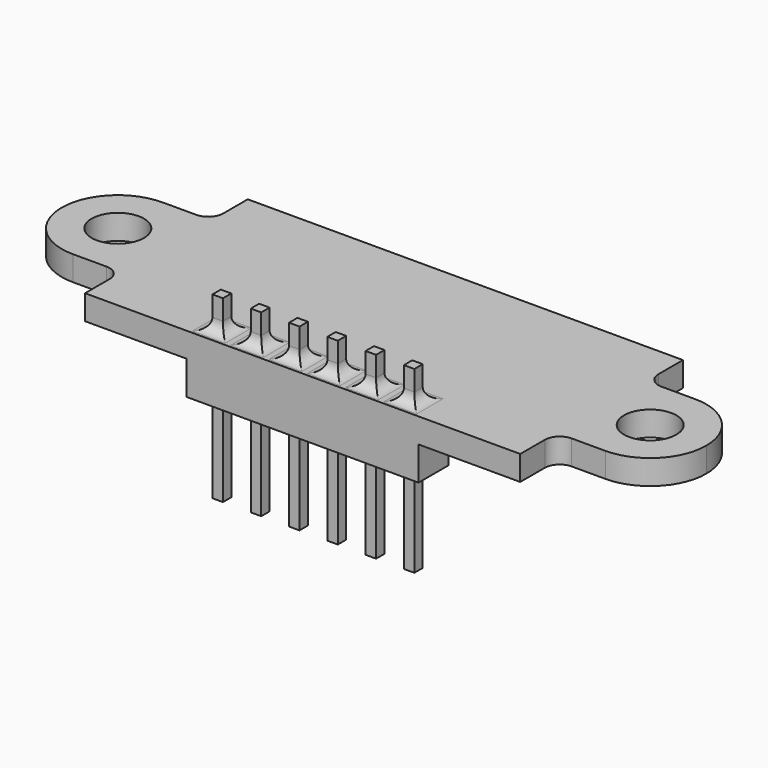
from build123d import *

# Parameters (mm, degrees)
F0_R          = 1.75
F1_DEPTH      = 1.65
F2_R          = 1
F3_W          = 15.5
F3_H          = 2.5
F4_DEPTH      = 2.25
F5_W          = 0.7
F5_H          = 0.7
F6_DEPTH      = 6
F6_DEPTH_BACK = 6
F7_R          = 0.75


with BuildPart() as f1:
    # F0 (on Top) → F1 (new body)
    with BuildSketch(Plane.XY):
        with BuildLine():
            Line((14.55, 6.8), (-14.55, 6.8))
            Line((-14.55, 6.8), (-14.55, 3.75))
            Line((-14.55, 3.75), (-14.55, 1.8708286934))
            ThreePointArc((-14.55, 1.8708286934), (-14.1771558135, 0.9682458366), (-14.05, 0))
            ThreePointArc((-14.05, 0), (-14.1771558135, -0.9682458366), (-14.55, -1.8708286934))
            Line((-14.55, -1.8708286934), (-14.55, -3.75))
            Line((-14.55, -3.75), (-14.55, -6.8))
            Line((-14.55, -6.8), (14.55, -6.8))
            Line((14.55, -6.8), (14.55, -3.75))
            Line((14.55, -3.75), (14.55, -1.8708286934))
            ThreePointArc((14.55, -1.8708286934), (14.05, 0), (14.55, 1.8708286934))
            Line((14.55, 1.8708286934), (14.55, 3.75))
            Line((14.55, 3.75), (14.55, 6.8))
        make_face()
        with BuildLine():
            Line((-14.55, 1.8708286934), (-14.55, 3.75))
            Line((-14.55, 3.75), (-17.8, 3.75))
            ThreePointArc((-17.8, 3.75), (-15.9229155054, 3.2463908884), (-14.55, 1.8708286934))
        make_face()
        with BuildLine():
            Line((17.8, 3.75), (14.55, 3.75))
            Line((14.55, 3.75), (14.55, 1.8708286934))
            ThreePointArc((14.55, 1.8708286934), (15.9229155054, 3.2463908884), (17.8, 3.75))
        make_face()
        with BuildLine():
            Line((-14.55, -1.8708286934), (-14.55, 1.8708286934))
            ThreePointArc((-14.55, 1.8708286934), (-15.9229155054, 3.2463908884), (-17.8, 3.75))
            ThreePointArc((-17.8, 3.75), (-21.55, 0), (-17.8, -3.75))
            ThreePointArc((-17.8, -3.75), (-15.9229155054, -3.2463908884), (-14.55, -1.8708286934))
        make_face()
        with Locations((-17.8, 0)):
            Circle(F0_R, mode=Mode.SUBTRACT)
        with BuildLine():
            ThreePointArc((17.8, 3.75), (15.9229155054, 3.2463908884), (14.55, 1.8708286934))
            Line((14.55, 1.8708286934), (14.55, -1.8708286934))
            ThreePointArc((14.55, -1.8708286934), (15.9229155054, -3.2463908884), (17.8, -3.75))
            ThreePointArc((17.8, -3.75), (20.4516504294, -2.6516504294), (21.55, 0))
            ThreePointArc((21.55, 0), (20.4516504294, 2.6516504294), (17.8, 3.75))
        make_face()
        with Locations((17.8, 0)):
            Circle(F0_R, mode=Mode.SUBTRACT)
        with BuildLine():
            Line((-14.55, -3.75), (-14.55, -1.8708286934))
            ThreePointArc((-14.55, -1.8708286934), (-15.9229155054, -3.2463908884), (-17.8, -3.75))
            Line((-17.8, -3.75), (-14.55, -3.75))
        make_face()
        with BuildLine():
            ThreePointArc((17.8, -3.75), (15.9229155054, -3.2463908884), (14.55, -1.8708286934))
            Line((14.55, -1.8708286934), (14.55, -3.75))
            Line((14.55, -3.75), (17.8, -3.75))
        make_face()
        with BuildLine():
            ThreePointArc((-14.05, 0), (-14.1771558135, 0.9682458366), (-14.55, 1.8708286934))
            Line((-14.55, 1.8708286934), (-14.55, -1.8708286934))
            ThreePointArc((-14.55, -1.8708286934), (-14.1771558135, -0.9682458366), (-14.05, 0))
        make_face()
        with BuildLine():
            Line((14.55, -1.8708286934), (14.55, 1.8708286934))
            ThreePointArc((14.55, 1.8708286934), (14.05, 0), (14.55, -1.8708286934))
        make_face()
    extrude(amount=F1_DEPTH)

    # F2
    f2_edges = [f1.edges().sort_by_distance(p)[0] for p in [
        (14.55, 3.75, 0.825),
        (14.55, -3.75, 0.825),
        (-14.55, -3.75, 0.825),
        (-14.55, 3.75, 0.825),
    ]]
    fillet(f2_edges, radius=F2_R)

    # F3 (on face) → F4 (join)
    with BuildSketch(Plane(origin=(0, 0, 0), x_dir=(1, 0, 0), z_dir=(0, 0, -1))):
        with Locations((0, 5.55)):
            Rectangle(F3_W, F3_H)
    extrude(amount=F4_DEPTH)

    # F5 (on face) → F6 (join, two sides)
    with BuildSketch(Plane(origin=(0, 0, -2.25), x_dir=(1, 0, 0), z_dir=(0, 0, -1))) as f6_sk:
        with Locations((-6.4, 5.55)):
            Rectangle(F5_W, F5_H)
        with Locations((6.4, 5.55)):
            Rectangle(F5_W, F5_H)
        with Locations((-3.84, 5.55)):
            Rectangle(F5_W, F5_H)
        with Locations((-1.28, 5.55)):
            Rectangle(F5_W, F5_H)
        with Locations((1.28, 5.55)):
            Rectangle(F5_W, F5_H)
        with Locations((3.84, 5.55)):
            Rectangle(F5_W, F5_H)
    extrude(amount=F6_DEPTH)
    extrude(f6_sk.sketch, amount=-F6_DEPTH_BACK)

    # F7
    f7_edges = [f1.edges().sort_by_distance(p)[0] for p in [
        (6.4, -5.2, 1.65),
        (6.75, -5.55, 1.65),
        (6.4, -5.9, 1.65),
        (6.05, -5.55, 1.65),
        (4.19, -5.55, 1.65),
        (3.84, -5.9, 1.65),
        (3.49, -5.55, 1.65),
        (3.84, -5.2, 1.65),
        (1.28, -5.2, 1.65),
        (0.93, -5.55, 1.65),
        (1.28, -5.9, 1.65),
        (1.63, -5.55, 1.65),
        (-1.28, -5.9, 1.65),
        (-1.63, -5.55, 1.65),
        (-0.93, -5.55, 1.65),
        (-1.28, -5.2, 1.65),
        (-3.84, -5.9, 1.65),
        (-4.19, -5.55, 1.65),
        (-3.49, -5.55, 1.65),
        (-3.84, -5.2, 1.65),
        (-6.4, -5.2, 1.65),
        (-6.75, -5.55, 1.65),
        (-6.4, -5.9, 1.65),
        (-6.05, -5.55, 1.65),
    ]]
    fillet(f7_edges, radius=F7_R)


solid = f1.part
